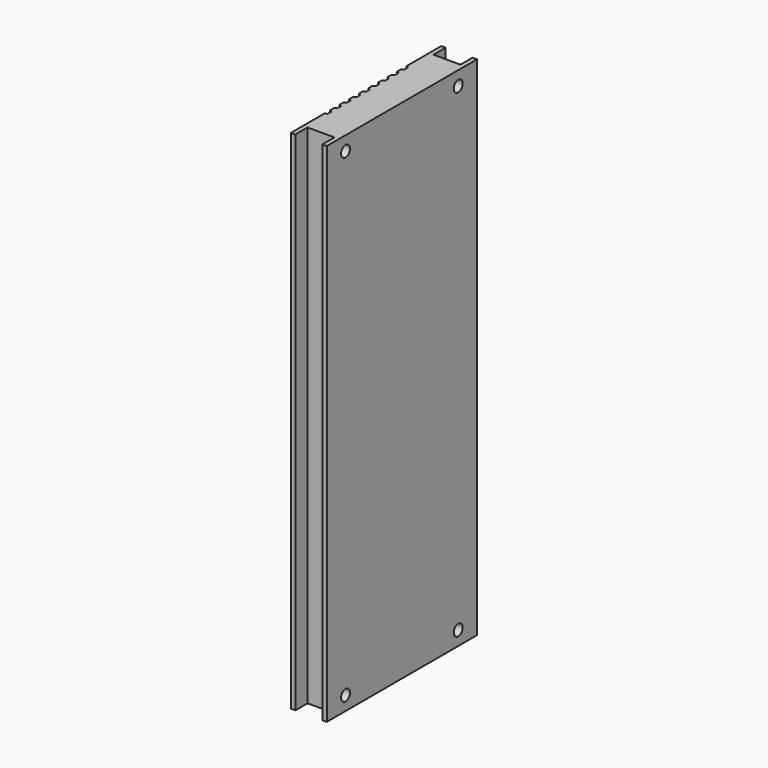
from build123d import *

# Parameters (mm, degrees)
F1_DEPTH = 216
F2_R     = 2.375
F3_DEPTH = 15.251
F4_R     = 1.3
F5_DEPTH = 5
F6_DEPTH = 5


with BuildPart() as f1:
    # F0 (on Top) → F1 (new body)
    with BuildSketch(Plane.XY):
        Polygon((0, 17.8), (0, 0), (1.9, 0), (1.9, 6.45), (13.35, 6.45), (13.35, 0), (15.25, 0), (15.25, 80), (13.35, 80), (13.35, 73.55), (1.9, 73.55), (1.9, 80), (0, 80), (0, 61.6), (1, 61.1), (1, 59.1), (0, 58.6), (0, 56.5), (1, 56), (1, 54), (0, 53.5), (0, 51.4), (1, 50.9), (1, 48.9), (0, 48.4), (0, 46.3), (1, 45.8), (1, 43.8), (0, 43.3), (0, 41.2), (1, 40.7), (1, 38.7), (0, 38.2), (0, 36.1), (1, 35.6), (1, 33.6), (0, 33.1), (0, 31), (1, 30.5), (1, 28.5), (0, 28), (0, 25.9), (1, 25.4), (1, 23.4), (0, 22.9), (0, 20.8), (1, 20.3), (1, 18.3), align=None)
    extrude(amount=F1_DEPTH)

    # F2 (on face) → F3 (cut, through all)
    with BuildSketch(Plane(origin=(0, 0, 0), x_dir=(0, -1, 0), z_dir=(-1, 0, 0))):
        with Locations((-70, 6)):
            Circle(F2_R)
        with Locations((-10, 6)):
            Circle(F2_R)
        with Locations((-70, 210)):
            Circle(F2_R)
        with Locations((-10, 210)):
            Circle(F2_R)
    extrude(amount=-F3_DEPTH, mode=Mode.SUBTRACT)


with BuildPart() as f5:
    # F4 (on face) → F5 (new body)
    with BuildSketch(Plane(origin=(0, 0, 0), x_dir=(1, 0, 0), z_dir=(0, 0, -1))):
        with Locations((7.787197, -27.45)):
            Circle(F4_R)
    extrude(amount=F5_DEPTH)


with BuildPart() as f6:
    # F4 (on face) → F6 (new body)
    with BuildSketch(Plane(origin=(0, 0, 0), x_dir=(1, 0, 0), z_dir=(0, 0, -1))):
        with Locations((7.787197, -52.55)):
            Circle(F4_R)
    extrude(amount=F6_DEPTH)


solid = Compound([f1.part, f5.part, f6.part])
